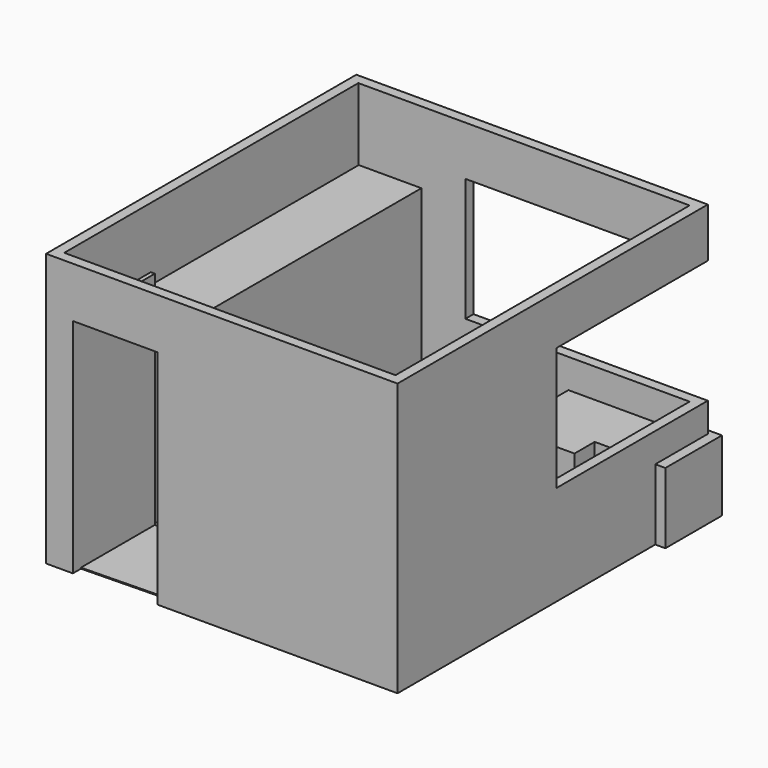
from build123d import *

# Parameters (mm, degrees)
F0_W      = 3480
F0_H      = 3840
F0_W_2    = 3280
F0_H_2    = 3640
F1_DEPTH  = 2700
F3_DEPTH  = 20
F4_DEPTH  = 100
F5_W      = 1770
F5_H      = 1220
F6_DEPTH  = 100
F7_W      = 2320
F7_H      = 1220
F8_DEPTH  = 100
F9_W      = 1120
F9_H      = 770
F10_DEPTH = 125
F11_W     = 40
F11_H     = 895
F12_DEPTH = 2200
F14_DEPTH = 10
F15_W     = 1895
F15_H     = 2125
F16_DEPTH = 500
F17_W     = 700
F17_H     = 700
F18_DEPTH = 700
F19_W     = 620
F19_H     = 2650
F20_DEPTH = 2000
F21_ANGLE = 90


with BuildPart() as f1:
    # F0 (on Top) → F1 (new body)
    with BuildSketch(Plane.XY):
        with Locations((-1640, 1820)):
            Rectangle(F0_W, F0_H)
        with Locations((-1640, 1820)):
            Rectangle(F0_W_2, F0_H_2, mode=Mode.SUBTRACT)
    extrude(amount=F1_DEPTH)

    # F2 (on face) → F3 (join)
    with BuildSketch(Plane(origin=(0, 0, 0), x_dir=(-1, 0, 0), z_dir=(0, 1, 0))):
        Polygon((3115, 2200), (3115, 0), (3180, 0), (3180, 2265), (2210, 2265), (2210, 0), (2275, 0), (2275, 2200), align=None)
    extrude(amount=F3_DEPTH)

    # F4 (cut, through all): a face of the model
    f4_faces = [f1.faces().sort_by_distance(p)[0] for p in [
        (-2695, 0, 1100),
    ]]
    extrude(f4_faces, amount=-F4_DEPTH, mode=Mode.SUBTRACT)

    # F5 (on face) → F6 (cut, through all)
    with BuildSketch(Plane(origin=(0, 0, 0), x_dir=(0, -1, 0), z_dir=(-1, 0, 0))):
        with Locations((-2755, 1600)):
            Rectangle(F5_W, F5_H)
    extrude(amount=-F6_DEPTH, mode=Mode.SUBTRACT)

    # F7 (on face) → F8 (cut, through all)
    with BuildSketch(Plane.XZ.offset(-3640)):
        with Locations((-1060, 1600)):
            Rectangle(F7_W, F7_H)
    extrude(amount=-F8_DEPTH, mode=Mode.SUBTRACT)

    # F9 (on face) → F10 (join)
    with BuildSketch(Plane(origin=(0, 0, 0), x_dir=(0, -1, 0), z_dir=(-1, 0, 0))):
        with Locations((-2750, 385)):
            Rectangle(F9_W, F9_H)
    extrude(amount=F10_DEPTH)

    # F11 (on face) → F12 (join)
    with BuildSketch(Plane(origin=(0, 0, 0), x_dir=(1, 0, 0), z_dir=(0, 0, -1))):
        with Locations((-3135, -467.5)):
            Rectangle(F11_W, F11_H)
    extrude(amount=-F12_DEPTH)

    # F13 (on face) → F14 (join)
    with BuildSketch(Plane(origin=(0, 0, 0), x_dir=(1, 0, 0), z_dir=(0, 0, -1))):
        with BuildLine():
            Line((-3115, 0), (-3115, -915))
            ThreePointArc((-3115, -915), (-2500.3431356366, -640.5071349656), (-2239.3444970951, -20))
            Line((-2239.3444970951, -20), (-3115, 0))
        make_face()
    extrude(amount=-F14_DEPTH)


with BuildPart() as f16:
    # F15 (on Top) → F16 (new body)
    with BuildSketch(Plane.XY):
        with Locations((-997.5, 1112.5)):
            Rectangle(F15_W, F15_H)
    extrude(amount=F16_DEPTH)


with BuildPart() as f18:
    # F17 (on Top) → F18 (new body)
    with BuildSketch(Plane.XY):
        Polygon((-1450, 2840), (-1700, 2840), (-1700, 2140), (-500, 2140), (-500, 2840), (-750, 2840), align=None)
        with Locations((-1100, 3190)):
            Rectangle(F17_W, F17_H)
    extrude(amount=F18_DEPTH)


with BuildPart() as f20:
    # F19 (on Top) → F20 (new body)
    with BuildSketch(Plane.XY):
        with Locations((-2950, 2295)):
            Rectangle(F19_W, F19_H)
    extrude(amount=F20_DEPTH)


with BuildPart() as f18_1:
    # F21: moved
    add(f18.part.rotate(Axis((-500, 2840, 350), (0, 0, -1)), F21_ANGLE))


solid = Compound([f1.part, f16.part, f20.part, f18_1.part])
